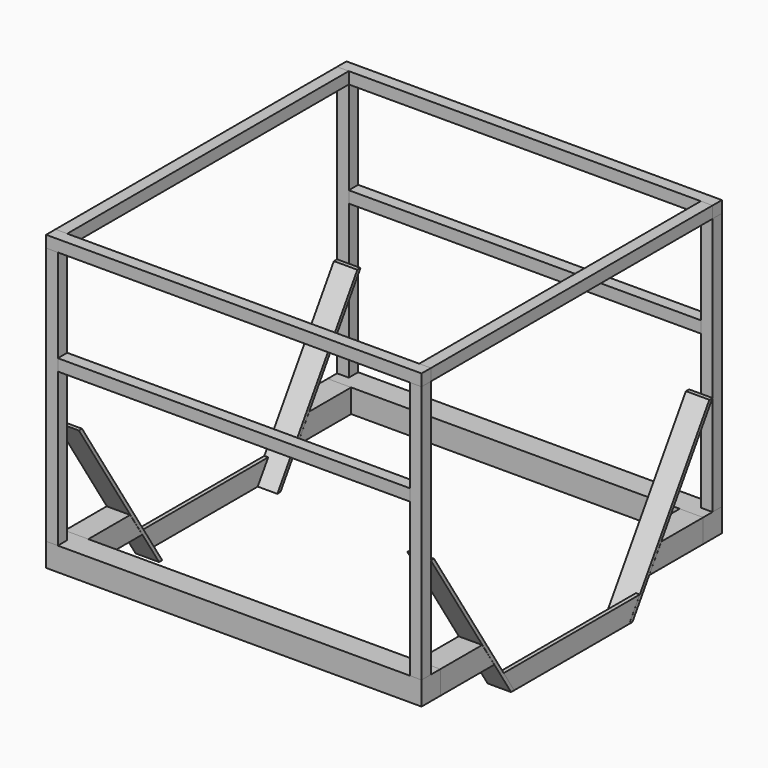
from build123d import *

# Parameters (mm, degrees)
F0_W      = 1219.2
F0_H      = 76.2
F1_DEPTH  = 76.2
F2_W      = 1219.2
F2_H      = 38.1
F3_DEPTH  = 38.1
F4_W      = 38.1
F4_H      = 838.2
F5_DEPTH  = 38.1
F8_W      = 1143
F8_H      = 38.1
F9_DEPTH  = 38.1
F13_W     = 1143
F13_H     = 38.1
F14_DEPTH = 38.1
F17_DEPTH = 76.2
F19_DEPTH = 76.2
F22_DEPTH = 12.7
F24_DEPTH = 76.2
F26_DEPTH = 76.2


with BuildPart() as f1:
    # F0 (on Front) → F1 (new body)
    with BuildSketch(Plane.XZ):
        Rectangle(F0_W, F0_H)
    extrude(amount=F1_DEPTH)


with BuildPart() as f3:
    # F2 (on Front) → F3 (new body)
    with BuildSketch(Plane.XZ):
        with Locations((0, 892.175)):
            Rectangle(F2_W, F2_H)
    extrude(amount=F3_DEPTH)


with BuildPart() as f5:
    # F4 (on Front) → F5 (new body)
    with BuildSketch(Plane.XZ):
        with Locations((590.55, 457.2)):
            Rectangle(F4_W, F4_H)
    extrude(amount=F5_DEPTH)


with BuildPart() as f6_1:
    # F6: copy of F5
    add(f5.part.moved(Location((-1181.1, 0, 0))))


with BuildPart() as f3_1:
    # F7: moved
    add(f3.part.moved(Location((0, 0, 3.175))))


with BuildPart() as f9:
    # F8 (on Front) → F9 (new body)
    with BuildSketch(Plane.XZ):
        with Locations((-3.3379e-06, 554.8400432974)):
            Rectangle(F8_W, F8_H)
    extrude(amount=F9_DEPTH)


with BuildPart() as f6_1_1:
    # F10: moved
    add(f6_1.part.moved(Location((0, -38.1, 0))))


with BuildPart() as f3_2:
    # F10: moved
    add(f3_1.part.moved(Location((0, -38.1, 0))))


with BuildPart() as f9_1:
    # F10: moved
    add(f9.part.moved(Location((0, -38.1, 0))))


with BuildPart() as f5_1:
    # F10: moved
    add(f5.part.moved(Location((0, -38.1, 0))))


with BuildPart() as f11_1:
    # F11: copy of F1
    add(f1.part.moved(Location((0, 1143, 0))))


with BuildPart() as f11_2:
    # F11: copy of F3
    add(f3_2.part.moved(Location((0, 1143, 0))))


with BuildPart() as f11_3:
    # F11: copy of F5
    add(f5_1.part.moved(Location((0, 1143, 0))))


with BuildPart() as f11_4:
    # F11: copy of F9
    add(f9_1.part.moved(Location((0, 1143, 0))))


with BuildPart() as f11_5:
    # F11: copy of F6_1
    add(f6_1_1.part.moved(Location((0, 1143, 0))))


with BuildPart() as f11_4_1:
    # F12: moved
    add(f11_4.part.moved(Location((0, 38.1, 0))))


with BuildPart() as f11_5_1:
    # F12: moved
    add(f11_5.part.moved(Location((0, 38.1, 0))))


with BuildPart() as f11_2_1:
    # F12: moved
    add(f11_2.part.moved(Location((0, 38.1, 0))))


with BuildPart() as f11_3_1:
    # F12: moved
    add(f11_3.part.moved(Location((0, 38.1, 0))))


with BuildPart() as f14:
    # F13 (on face) → F14 (new body)
    with BuildSketch(Plane.YZ.offset(609.6)):
        with Locations((533.4, 895.35)):
            Rectangle(F13_W, F13_H)
    extrude(amount=-F14_DEPTH)


with BuildPart() as f15_1:
    # F15: copy of F14
    add(f14.part.moved(Location((-1181.1, 0, 0))))


with BuildPart() as f17:
    # F16 (on face) → F17 (new body)
    with BuildSketch(Plane.YZ.offset(609.6)):
        Polygon((847.725, -38.1), (1066.8, -38.1), (1066.8, 38.1), (896.9248, 38.1), align=None)
    extrude(amount=-F17_DEPTH)


with BuildPart() as f19:
    # F18 (on face) → F19 (new body)
    with BuildSketch(Plane.YZ.offset(609.6)):
        Polygon((0, 38.1), (0, -38.1), (219.075, -38.1), (169.8752, 38.1), align=None)
    extrude(amount=-F19_DEPTH)


with BuildPart() as f20_1:
    # F20: copy of F17
    add(f17.part.moved(Location((-1143, 0, 0))))


with BuildPart() as f20_2:
    # F20: copy of F19
    add(f19.part.moved(Location((-1143, 0, 0))))


with BuildPart() as f22:
    # F21 (on face) → F22 (new body)
    with BuildSketch(Plane.YZ.offset(609.6)):
        Polygon((809.625, -77.7748), (257.175, -77.7748), (300.0232502792, -144.3875717018), (766.7482502792, -144.3875717018), align=None)
    extrude(amount=-F22_DEPTH)


with BuildPart() as f24:
    # F23 (on face) → F24 (new body)
    with BuildSketch(Plane.YZ.offset(609.6)):
        Polygon((767.1654820442, -144.3600803614), (779.8654820442, -144.3600803614), (1104.6268063746, 364.2057180405), (1091.9268063746, 364.2057180405), align=None)
    extrude(amount=-F24_DEPTH)


with BuildPart() as f26:
    # F25 (on face) → F26 (new body)
    with BuildSketch(Plane.YZ.offset(609.6)):
        Polygon((-25.6802202225, 364.2120063305), (-38.3802202225, 364.2120063305), (287.2341871262, -144.3478763103), (299.9432086945, -144.3478763103), align=None)
    extrude(amount=-F26_DEPTH)


with BuildPart() as f27_1:
    # F27: copy of F22
    add(f22.part.moved(Location((-1143, 0, 0))))


with BuildPart() as f27_2:
    # F27: copy of F24
    add(f24.part.moved(Location((-1143, 0, 0))))


with BuildPart() as f27_3:
    # F27: copy of F26
    add(f26.part.moved(Location((-1143, 0, 0))))


with BuildPart() as f27_1_1:
    # F28: moved
    add(f27_1.part.moved(Location((-63.5, 0, 0))))


solid = Compound([f1.part, f6_1_1.part, f3_2.part, f9_1.part, f5_1.part, f11_1.part, f11_4_1.part, f11_5_1.part, f11_2_1.part, f11_3_1.part, f14.part, f15_1.part, f17.part, f19.part, f20_1.part, f20_2.part, f22.part, f24.part, f26.part, f27_2.part, f27_3.part, f27_1_1.part])
